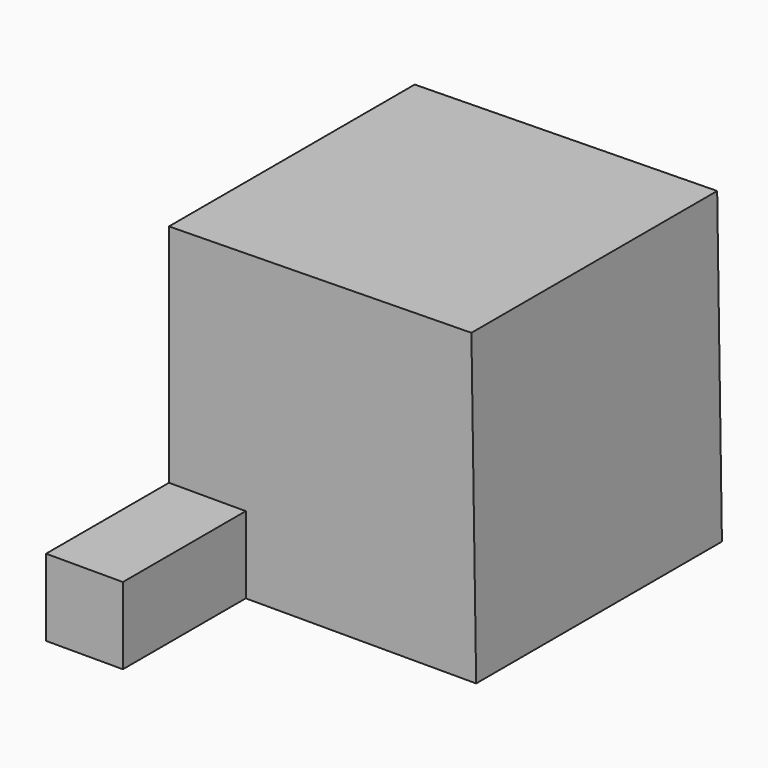
from build123d import *

# Parameters (mm, degrees)
F1_DEPTH = 50.8
F2_W     = 12.7
F2_H     = 12.7
F3_DEPTH = 25.4


with BuildPart() as f1:
    # F0 (on Front) → F1 (new body)
    with BuildSketch(Plane.XZ):
        Polygon((0, 50.79394), (-50.015371, 50.021338), (-50.015371, 0), (0.784629, 0), align=None)
    extrude(amount=F1_DEPTH)

    # F2 (on face) → F3 (join)
    with BuildSketch(Plane.XZ.offset(50.8)):
        with Locations((-43.665371, 6.35)):
            Rectangle(F2_W, F2_H)
    extrude(amount=F3_DEPTH)


solid = f1.part
